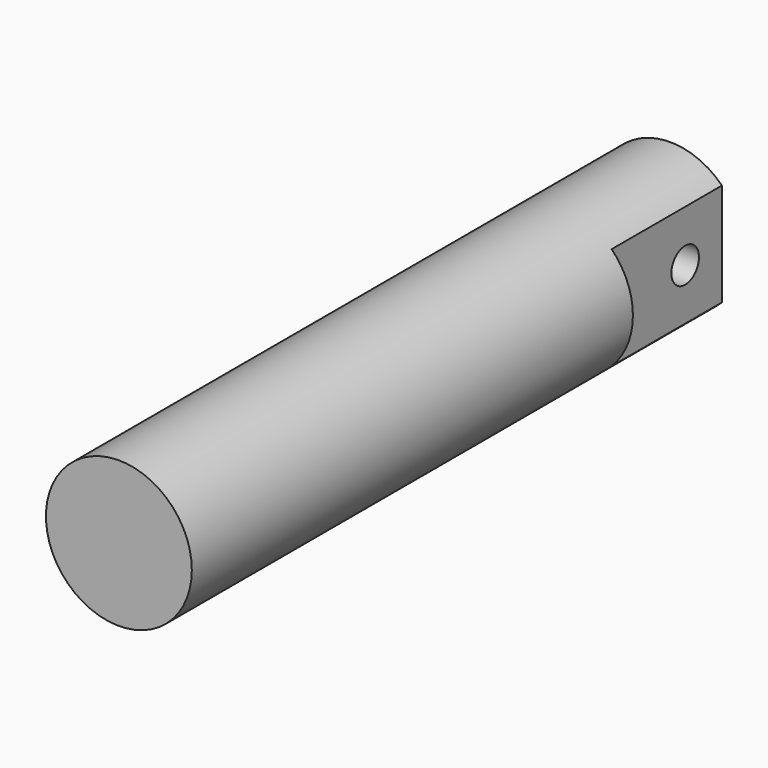
from build123d import *

# Parameters (mm, degrees)
F0_R     = 6.35
F1_DEPTH = 60
F3_DEPTH = 12
F4_R     = 1.5
F5_DEPTH = 25


with BuildPart() as f1:
    # F0 (on Front) → F1 (new body)
    with BuildSketch(Plane.XZ):
        Circle(F0_R)
    extrude(amount=-F1_DEPTH)

    # F2 (on face) → F3 (cut)
    with BuildSketch(Plane(origin=(0, 60, 0), x_dir=(-1, 0, 0), z_dir=(0, 1, 0))):
        Polygon((-6.955139, 0), (-4.5, -7.185974), (-4.5, 7.369376), align=None)
        Polygon((4.5, 7.369376), (4.5, -7.185974), (6.955139, 0), align=None)
    extrude(amount=-F3_DEPTH, mode=Mode.SUBTRACT)

    # F4 (on face) → F5 (cut)
    with BuildSketch(Plane.YZ.offset(4.5)):
        with Locations((56, 0)):
            Circle(F4_R)
    extrude(amount=-F5_DEPTH, mode=Mode.SUBTRACT)


solid = f1.part
